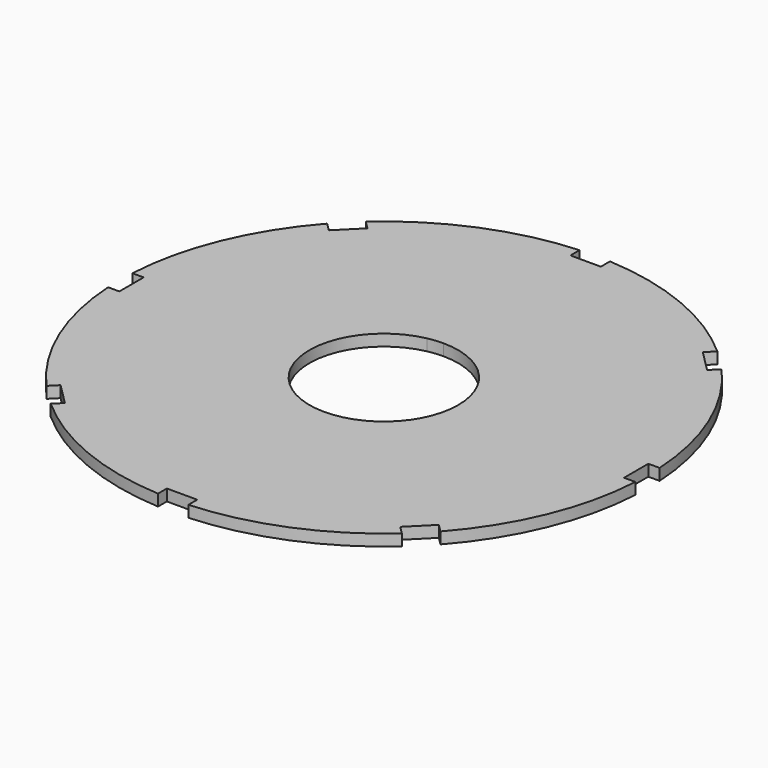
from build123d import *

# Parameters (mm, degrees)
F1_DEPTH = 30


with BuildPart() as f1:
    # F0 (on Top) → F1 (new body)
    with BuildSketch(Plane.XY):
        with BuildLine():
            ThreePointArc((195, 0), (137.917386, 137.854252), (0.089285, 194.99998))
            ThreePointArc((0.089285, 194.99998), (-20.017406, 193.969852), (-39.910715, 190.872038))
            ThreePointArc((-39.910715, 190.872038), (-122.96831, -151.339997), (195, 0))
        make_face()
        with BuildLine():
            Line((-39.910715, 661.312341), (-39.910715, 691.289392))
            ThreePointArc((-39.910715, 691.289392), (-265.04589, 639.639153), (-460.640498, 516.771972))
            Line((-460.640498, 516.771972), (-439.552703, 495.684178))
            Line((-439.552703, 495.684178), (-495.839578, 439.397303))
            Line((-495.839578, 439.397303), (-516.887556, 460.445282))
            ThreePointArc((-516.887556, 460.445282), (-639.435452, 264.77976), (-690.797006, 39.690946))
            Line((-690.797006, 39.690946), (-661.312341, 39.690946))
            Line((-661.312341, 39.690946), (-661.312341, -39.910715))
            Line((-661.312341, -39.910715), (-690.732907, -39.910715))
            ThreePointArc((-690.732907, -39.910715), (-639.059125, -264.795556), (-516.320455, -460.18898))
            Line((-516.320455, -460.18898), (-495.684178, -439.552703))
            Line((-495.684178, -439.552703), (-439.397303, -495.839578))
            Line((-439.397303, -495.839578), (-460.004053, -516.446327))
            ThreePointArc((-460.004053, -516.446327), (-264.550411, -638.951594), (-39.690946, -690.409224))
            Line((-39.690946, -690.409224), (-39.690946, -661.312341))
            Line((-39.690946, -661.312341), (39.910715, -661.312341))
            Line((39.910715, -661.312341), (39.910715, -690.406851))
            ThreePointArc((39.910715, -690.406851), (264.791314, -638.925792), (460.252577, -516.384051))
            Line((460.252577, -516.384051), (439.552703, -495.684178))
            Line((439.552703, -495.684178), (495.839578, -439.397303))
            Line((495.839578, -439.397303), (516.561361, -460.119087))
            ThreePointArc((516.561361, -460.119087), (639.297817, -264.650635), (690.924281, -39.690946))
            Line((690.924281, -39.690946), (661.312341, -39.690946))
            Line((661.312341, -39.690946), (661.312341, 39.910715))
            Line((661.312341, 39.910715), (690.963058, 39.910715))
            ThreePointArc((690.963058, 39.910715), (639.505725, 265.041622), (516.835651, 460.704176))
            Line((516.835651, 460.704176), (495.684178, 439.552703))
            Line((495.684178, 439.552703), (439.397303, 495.839578))
            Line((439.397303, 495.839578), (460.560399, 517.002673))
            ThreePointArc((460.560399, 517.002673), (264.880071, 639.781896), (39.690946, 691.312341))
            Line((39.690946, 691.312341), (39.690946, 661.312341))
            Line((39.690946, 661.312341), (0.089285, 661.312341))
            Line((0.089285, 661.312341), (-39.910715, 661.312341))
        make_face()
        with BuildLine():
            ThreePointArc((-39.910715, 190.872038), (-20.017406, 193.969852), (0.089285, 194.99998))
            ThreePointArc((0.089285, 194.99998), (137.917386, 137.854252), (195, 0))
            ThreePointArc((195, 0), (-122.96831, -151.339997), (-39.910715, 190.872038))
        make_face(mode=Mode.SUBTRACT)
    extrude(amount=F1_DEPTH)


solid = f1.part
